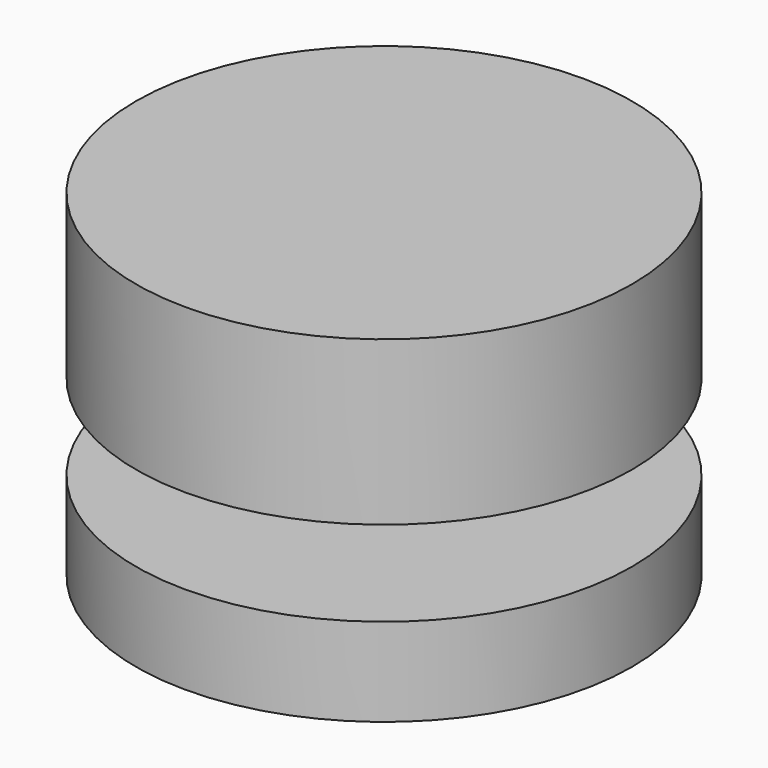
from build123d import *

# Parameters (mm, degrees)
F0_R     = 71.411759
F1_DEPTH = 25.4
F3_R     = 71.411759
F4_DEPTH = 47


with BuildPart() as f1:
    # F0 (on Top) → F1 (new body)
    with BuildSketch(Plane.XY):
        Circle(F0_R)
    extrude(amount=F1_DEPTH)


with BuildPart() as f4:
    # F3 (on offset) → F4 (new body)
    with BuildSketch(Plane.XY.offset(50)):
        Circle(F3_R)
    extrude(amount=F4_DEPTH)


solid = Compound([f1.part, f4.part])
